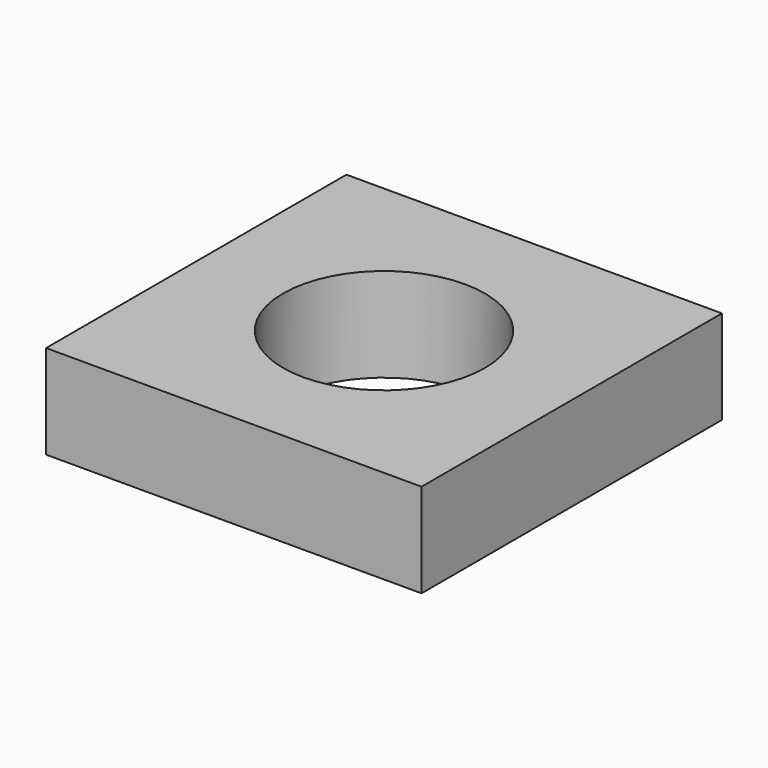
from build123d import *

# Parameters (mm, degrees)
F0_W     = 80
F0_H     = 80
F0_R     = 21.5
F1_DEPTH = 20
F3_DEPTH = 16


with BuildPart() as f1:
    # F0 (on Top) → F1 (new body)
    with BuildSketch(Plane.XY):
        with Locations((40, -40)):
            Rectangle(F0_W, F0_H)
        with Locations((40, -40)):
            Circle(F0_R, mode=Mode.SUBTRACT)
    extrude(amount=F1_DEPTH)

    # F2 (on face) → F3 (cut)
    with BuildSketch(Plane(origin=(0, 0, 0), x_dir=(-1, 0, 0), z_dir=(0, 1, 0))):
        with BuildLine():
            ThreePointArc((-64, 10), (-68, 14), (-72, 10))
            Line((-72, 10), (-64, 10))
        make_face()
        with BuildLine():
            Line((-64, 10), (-72, 10))
            ThreePointArc((-72, 10), (-68, 6), (-64, 10))
        make_face()
        with BuildLine():
            ThreePointArc((-16, 10), (-12, 6), (-8, 10))
            Line((-8, 10), (-16, 10))
        make_face()
        with BuildLine():
            Line((-16, 10), (-8, 10))
            ThreePointArc((-8, 10), (-12, 14), (-16, 10))
        make_face()
        with BuildLine():
            Line((-44, 10), (-36, 10))
            ThreePointArc((-36, 10), (-40, 14), (-44, 10))
        make_face()
        with BuildLine():
            ThreePointArc((-44, 10), (-40, 6), (-36, 10))
            Line((-36, 10), (-44, 10))
        make_face()
    extrude(amount=-F3_DEPTH, mode=Mode.SUBTRACT)


solid = f1.part
